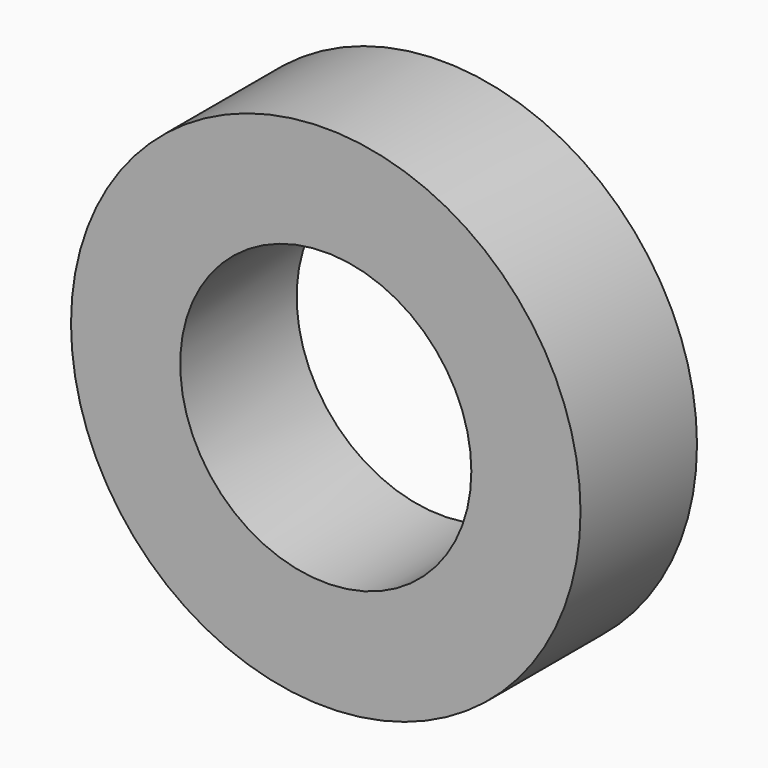
from build123d import *

# Parameters (mm, degrees)
F0_R     = 4
F1_DEPTH = 4.5
F0_R_2   = 7
F2_DEPTH = 4


with BuildPart() as f1:
    # F0 (on Front) → F1 (new body)
    with BuildSketch(Plane.XZ):
        with Locations((0.566548, 0)):
            Circle(F0_R)
    extrude(amount=-F1_DEPTH)


with BuildPart() as f2:
    # F0 (on Front) → F2 (new body)
    with BuildSketch(Plane.XZ):
        with Locations((0.566548, 0)):
            Circle(F0_R_2)
        with Locations((0.566548, 0)):
            Circle(F0_R, mode=Mode.SUBTRACT)
    extrude(amount=-F2_DEPTH)


solid = f2.part
